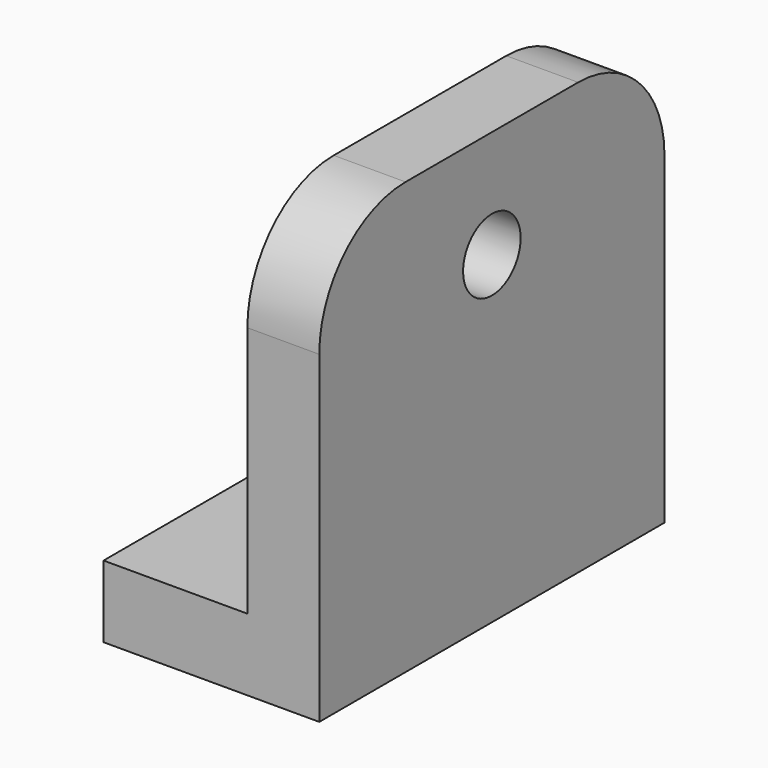
from build123d import *

# Parameters (mm, degrees)
F1_DEPTH = 76.2
F2_R     = 12.7
F3_DEPTH = 76.201
F4_W     = 12.7
F4_H     = 25.4
F5_DEPTH = 25.401
F6_R     = 38.1


with BuildPart() as f1:
    # F0 (on Front) → F1 (new body, symmetric)
    with BuildSketch(Plane.XZ):
        Polygon((-76.2, 25.4), (-76.2, 0), (0, 0), (0, 152.4), (-25.4, 152.4), (-25.4, 25.4), align=None)
    extrude(amount=F1_DEPTH, both=True)

    # F2 (on face) → F3 (cut, through all)
    with BuildSketch(Plane.YZ):
        with Locations((0, 114.3)):
            Circle(F2_R)
    extrude(amount=-F3_DEPTH, mode=Mode.SUBTRACT)

    # F4 (on face) → F5 (cut, through all)
    with BuildSketch(Plane.XY.offset(25.4)):
        with Locations((-69.85, 0)):
            Rectangle(F4_W, F4_H)
        with BuildLine():
            ThreePointArc((-63.5, -12.7), (-50.8, 0), (-63.5, 12.7))
            Line((-63.5, 12.7), (-63.5, -12.7))
        make_face()
    extrude(amount=-F5_DEPTH, mode=Mode.SUBTRACT)

    # F6
    f6_edges = [f1.edges().sort_by_distance(p)[0] for p in [
        (-12.7, 76.2, 152.4),
        (-12.7, -76.2, 152.4),
    ]]
    fillet(f6_edges, radius=F6_R)


solid = f1.part
